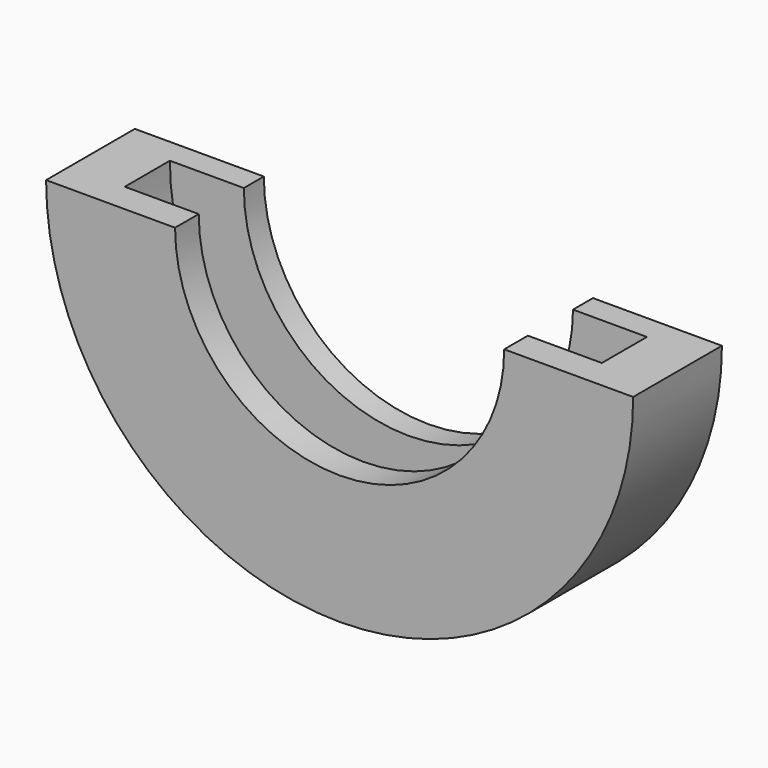
from build123d import *

# Parameters (mm, degrees)
F1_ANGLE = 180


with BuildPart() as f1:
    # F0 (on Top) → F1 (revolve)
    with BuildSketch(Plane.XY):
        Polygon((26.187427, 22.526817), (0, 22.526817), (0, 0), (26.187427, 0), (26.187427, 6.007152), (11.169545, 6.007152), (11.169545, 17.458284), (26.187427, 17.458284), align=None)
    revolve(axis=Axis((59.602201, 7.03963, 0), (0, -1, 0)), revolution_arc=F1_ANGLE)


solid = f1.part
